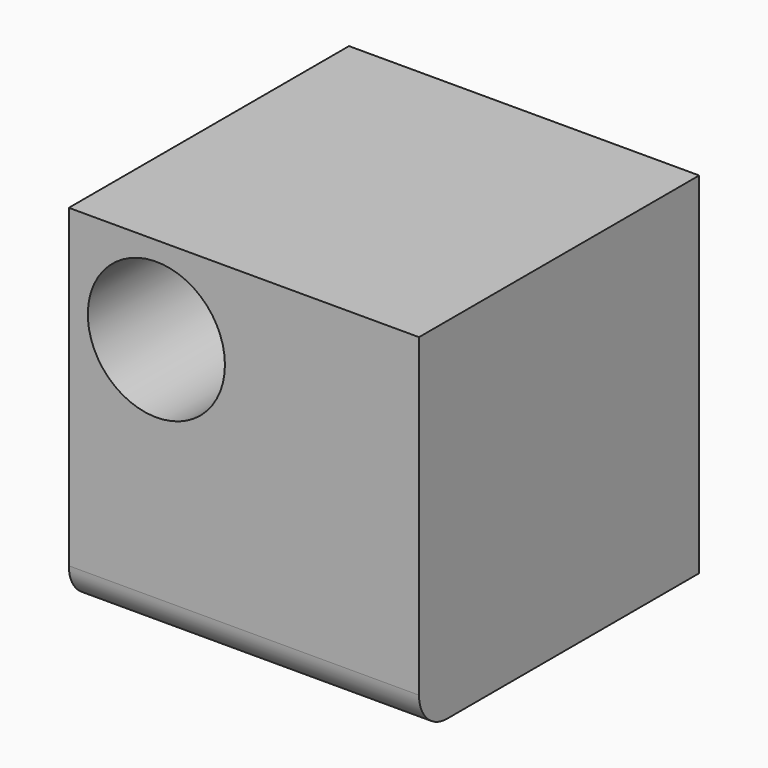
from build123d import *

# Parameters (mm, degrees)
F0_W     = 50.8
F0_H     = 50.8
F0_R     = 9.945043
F1_DEPTH = 50.8
F2_R     = 5.08


with BuildPart() as f1:
    # F0 (on Front) → F1 (new body)
    with BuildSketch(Plane.XZ):
        with Locations((-8.991436, 2.654359)):
            Rectangle(F0_W, F0_H)
        with Locations((-21.691436, 15.354359)):
            Circle(F0_R, mode=Mode.SUBTRACT)
    extrude(amount=F1_DEPTH)

    # F2
    f2_edges = [f1.edges().sort_by_distance(p)[0] for p in [
        (-8.991436, -50.8, -22.745641),
    ]]
    fillet(f2_edges, radius=F2_R)


solid = f1.part
